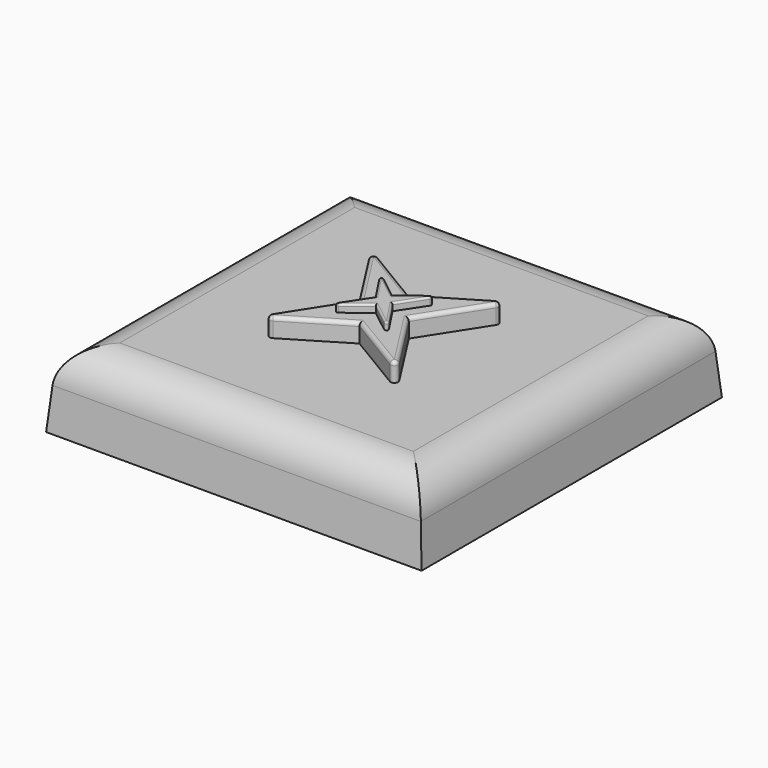
from build123d import *

# Parameters (mm, degrees)
F0_W     = 20
F0_H     = 20
F1_DEPTH = 4
F1_TAPER = 5
F2_R     = 2
F4_DEPTH = 1
F5_R     = 0.2
F7_DEPTH = 0.4
F8_R     = 0.1


with BuildPart() as f1:
    # F0 (on Top) → F1 (new body)
    with BuildSketch(Plane.XY):
        Rectangle(F0_W, F0_H)
    extrude(amount=F1_DEPTH, taper=F1_TAPER)

    # F2
    f2_edges = [f1.edges().sort_by_distance(p)[0] for p in [
        (9.650045, 0, 4),
        (0, 9.650045, 4),
        (-9.650045, 0, 4),
        (0, -9.650045, 4),
    ]]
    fillet(f2_edges, radius=F2_R)

    # F3 (on face) → F4 (join)
    with BuildSketch(Plane.XY.offset(4)):
        Polygon((3.8520088419, 3.9457110688), (0, 1.6323694726), (-3.8520088419, 3.9457110688), (-1.3217914384, 0), (-3.8520088419, -3.9457110688), (0, -1.6323694726), (3.8520088419, -3.9457110688), (1.3217914384, 0), align=None)
    extrude(amount=F4_DEPTH)

    # F5
    f5_edges = [f1.edges().sort_by_distance(p)[0] for p in [
        (2.5869, 1.972856, 5),
        (1.926004, 2.78904, 5),
        (-1.926004, 2.78904, 5),
        (-2.5869, 1.972856, 5),
        (-2.5869, -1.972856, 5),
        (-1.926004, -2.78904, 5),
        (1.926004, -2.78904, 5),
        (2.5869, -1.972856, 5),
        (-3.852009, 3.945711, 4.5),
        (-3.852009, -3.945711, 4.5),
        (3.852009, 3.945711, 4.5),
        (3.852009, -3.945711, 4.5),
    ]]
    fillet(f5_edges, radius=F5_R)

    # F6 (on face) → F7 (join)
    with BuildSketch(Plane.XY.offset(5)):
        Polygon((1.6986121191, 1.8877194962), (0, 0.5488963798), (-1.6986121191, 1.8877194962), (-0.4554191546, 0), (-1.6986121191, -1.8877194962), (0, -0.5488963798), (1.6986121191, -1.8877194962), (0.4554191546, 0), align=None)
    extrude(amount=F7_DEPTH)

    # F8
    f8_edges = [f1.edges().sort_by_distance(p)[0] for p in [
        (0.849306, 1.218308, 5.4),
        (-0.849306, 1.218308, 5.4),
        (-1.077016, 0.94386, 5.4),
        (-1.077016, -0.94386, 5.4),
        (-0.849306, -1.218308, 5.4),
        (0.849306, -1.218308, 5.4),
        (1.077016, -0.94386, 5.4),
        (1.077016, 0.94386, 5.4),
        (1.698612, 1.887719, 5.2),
        (1.698612, -1.887719, 5.2),
        (-1.698612, -1.887719, 5.2),
        (-1.698612, 1.887719, 5.2),
    ]]
    fillet(f8_edges, radius=F8_R)


solid = f1.part
